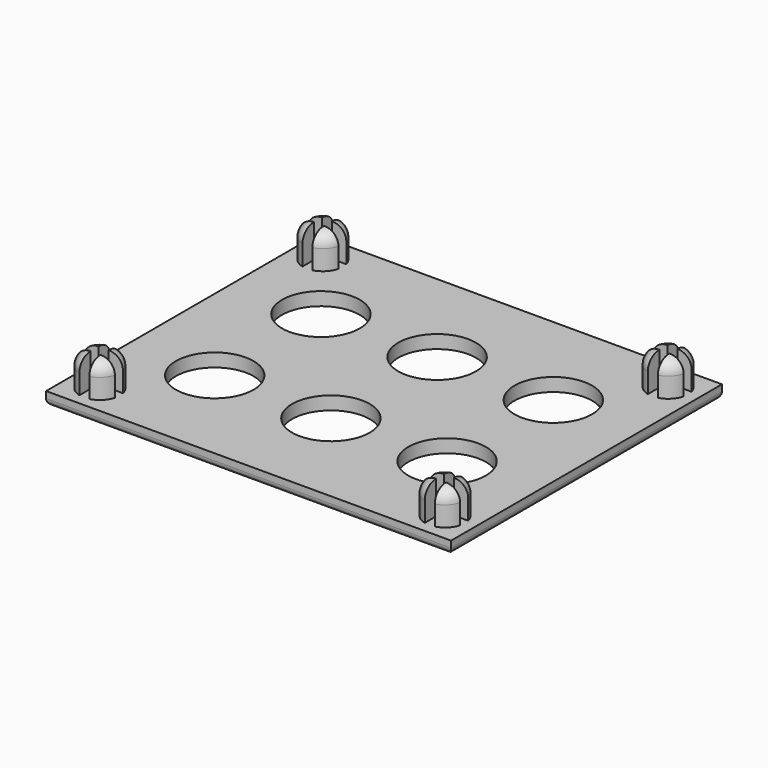
from build123d import *

# Parameters (mm, degrees)
SKETCH001_W                        = 61
SKETCH001_H                        = 51
PAD_DEPTH                          = 2
SKETCH002_R                        = 3
PAD001_DEPTH                       = 5
SKETCH002_MIRRORED_2_R             = 3
PAD001_MIRRORED_2_DEPTH            = 5
FILLET_R                           = 2
FILLET001_R                        = 1
POCKET_DEPTH                       = 5
POCKET_MIRRORED002_2_DEPTH         = 5
SKETCH051_R                        = 5.85
POCKET015_DEPTH                    = 5
SKETCH051_LINEARPATTERN002_2_R     = 5.85
POCKET015_LINEARPATTERN002_2_DEPTH = 5
SKETCH051_LINEARPATTERN002_3_R     = 5.85
POCKET015_LINEARPATTERN002_3_DEPTH = 5
LINEARPATTERN003_COUNT             = 2
LINEARPATTERN003_PITCH             = 20


with BuildPart() as part:
    # Sketch001 → Pad (new body)
    with BuildSketch(Plane.XY):
        Rectangle(SKETCH001_W, SKETCH001_H)
    extrude(amount=PAD_DEPTH)

    # Sketch002 (on DatumPlane) → Pad001 (join)
    with BuildSketch(Plane.XY.offset(2)):
        with Locations((-26, 21)):
            Circle(SKETCH002_R)
    pad001 = extrude(amount=PAD001_DEPTH)

    # Sketch002 Mirrored 2 → Pad001 Mirrored 2 (add)
    with BuildSketch(Plane(origin=(0, 0, 2), x_dir=(-1, 0, 0), z_dir=(0, 0, -1))):
        with Locations((-26, 21)):
            Circle(SKETCH002_MIRRORED_2_R)
    pad001_mirrored_2 = extrude(amount=-PAD001_MIRRORED_2_DEPTH)

    # Mirrored001: Pad001, Pad001 Mirrored 2 across Sketch002 H_Axis
    add(pad001.mirror(Plane(origin=(0, 0, 2), x_dir=(0, 0, 1), z_dir=(0, 1, 0))))
    add(pad001_mirrored_2.mirror(Plane(origin=(0, 0, 2), x_dir=(0, 0, 1), z_dir=(0, 1, 0))))

    # Fillet
    fillet_edges = [part.edges().sort_by_distance(p)[0] for p in [
        (29, 21, 7),
        (29, -21, 7),
        (-29, -21, 7),
        (-29, 21, 7),
    ]]
    fillet(fillet_edges, radius=FILLET_R)

    # Fillet001
    fillet001_edges = [part.edges().sort_by_distance(p)[0] for p in [
        (0, 25.5, 0),
        (30.5, 0, 0),
        (0, -25.5, 0),
        (-30.5, 0, 0),
    ]]
    fillet(fillet001_edges, radius=FILLET001_R)

    # Sketch003 (on DatumPlane) → Pocket (cut)
    with BuildSketch(Plane.XY.offset(7)):
        Polygon((-29.265642, -20.28286), (-26.765642, -20.28286), (-26.765642, -17.78286), (-25.265642, -17.78286), (-25.265642, -20.28286), (-22.765642, -20.28286), (-22.765642, -21.78286), (-25.265642, -21.78286), (-25.265642, -24.28286), (-26.765642, -24.28286), (-26.765642, -21.78286), (-29.265642, -21.78286), align=None)
    pocket = extrude(amount=-POCKET_DEPTH, mode=Mode.SUBTRACT)

    # Sketch003 Mirrored002 2 → Pocket Mirrored002 2 (cut)
    with BuildSketch(Plane(origin=(0, 0, 7), x_dir=(-1, 0, 0), z_dir=(0, 0, -1))):
        Polygon((-29.265642, -20.28286), (-26.765642, -20.28286), (-26.765642, -17.78286), (-25.265642, -17.78286), (-25.265642, -20.28286), (-22.765642, -20.28286), (-22.765642, -21.78286), (-25.265642, -21.78286), (-25.265642, -24.28286), (-26.765642, -24.28286), (-26.765642, -21.78286), (-29.265642, -21.78286), align=None)
    pocket_mirrored002_2 = extrude(amount=POCKET_MIRRORED002_2_DEPTH, mode=Mode.SUBTRACT)

    # Mirrored003: Pocket, Pocket Mirrored002 2 across Sketch003 H_Axis
    add(pocket.mirror(Plane(origin=(0, 0, 7), x_dir=(0, 0, 1), z_dir=(0, 1, 0))), mode=Mode.SUBTRACT)
    add(pocket_mirrored002_2.mirror(Plane(origin=(0, 0, 7), x_dir=(0, 0, 1), z_dir=(0, 1, 0))), mode=Mode.SUBTRACT)


with BuildPart() as part_1:
    # Body placement: moved
    add(part.part.moved(Location((0, -65, 0))))


with BuildPart() as part_2:
    # Clone010 placement: moved
    add(part_1.part.moved(Location((0, 65, 0))))

    # Sketch051 (on DatumPlane) → Pocket015 (cut)
    with BuildSketch(Plane(origin=(-17.5, 10, 0), x_dir=(1, 0, 0), z_dir=(0, 0, -1))):
        Circle(SKETCH051_R)
    pocket015 = extrude(amount=-POCKET015_DEPTH, mode=Mode.SUBTRACT)

    # Sketch051 LinearPattern002 2 → Pocket015 LinearPattern002 2 (cut)
    with BuildSketch(Plane(origin=(0, 10, 0), x_dir=(1, 0, 0), z_dir=(0, 0, -1))):
        Circle(SKETCH051_LINEARPATTERN002_2_R)
    pocket015_linearpattern002_2 = extrude(amount=-POCKET015_LINEARPATTERN002_2_DEPTH, mode=Mode.SUBTRACT)

    # Sketch051 LinearPattern002 3 → Pocket015 LinearPattern002 3 (cut)
    with BuildSketch(Plane(origin=(17.5, 10, 0), x_dir=(1, 0, 0), z_dir=(0, 0, -1))):
        Circle(SKETCH051_LINEARPATTERN002_3_R)
    pocket015_linearpattern002_3 = extrude(amount=-POCKET015_LINEARPATTERN002_3_DEPTH, mode=Mode.SUBTRACT)

    # LinearPattern003: Pocket015, Pocket015 LinearPattern002 2, Pocket015 LinearPattern002 3 ×2
    with Locations(*[(0, -i * LINEARPATTERN003_PITCH, 0) for i in range(1, LINEARPATTERN003_COUNT)]):
        add(pocket015, mode=Mode.SUBTRACT)
        add(pocket015_linearpattern002_2, mode=Mode.SUBTRACT)
        add(pocket015_linearpattern002_3, mode=Mode.SUBTRACT)


with BuildPart() as part_3:
    # Body017 placement: moved
    add(part_2.part.moved(Location((150, 61, 0))))


solid = part_3.part
